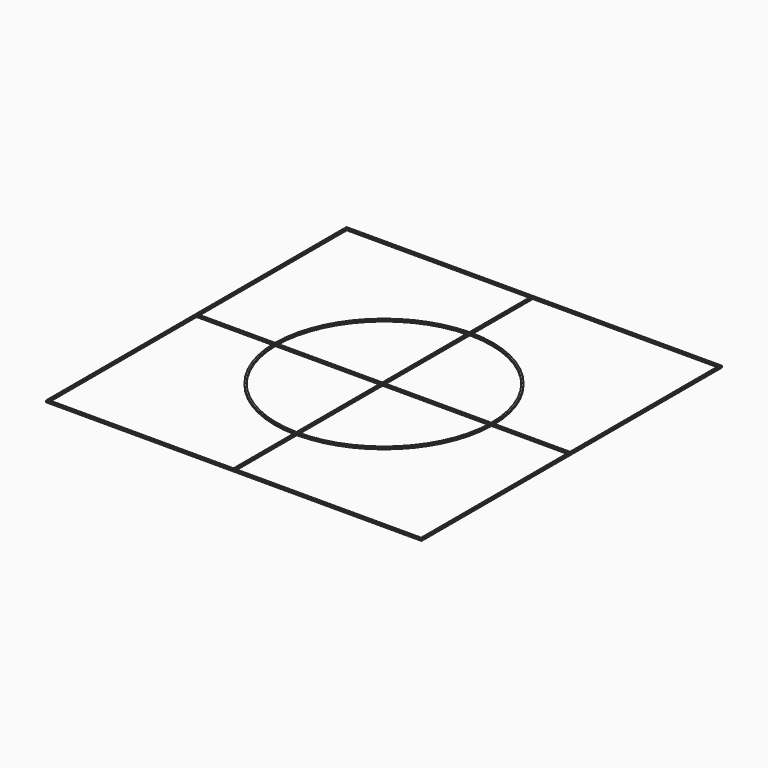
from build123d import *

# Parameters (mm, degrees)
F0_W     = 175
F0_H     = 175
F1_DEPTH = 0.8


with BuildPart() as f1:
    # F0 (on Top) → F1 (new body)
    with BuildSketch(Plane.XY):
        Rectangle(F0_W, F0_H)
        with BuildLine():
            Line((0, 86.7), (86.7, 86.7))
            Line((86.7, 86.7), (86.7, 0))
            Line((86.7, 0), (50.8, 0))
            ThreePointArc((50.8, 0), (50.7984250748, -0.4000124014), (50.7937003968, -0.8))
            Line((50.7937003968, -0.8), (86.7, -0.8))
            Line((86.7, -0.8), (86.7, -86.7))
            Line((86.7, -86.7), (0, -86.7))
            Line((0, -86.7), (0, -50.8))
            ThreePointArc((0, -50.8), (-0.4000124014, -50.7984250748), (-0.8, -50.7937003968))
            Line((-0.8, -50.7937003968), (-0.8, -86.7))
            Line((-0.8, -86.7), (-86.7, -86.7))
            Line((-86.7, -86.7), (-86.7, -0.8))
            Line((-86.7, -0.8), (-86.7, 0))
            Line((-86.7, 0), (-86.7, 86.7))
            Line((-86.7, 86.7), (-0.8, 86.7))
            Line((-0.8, 86.7), (-0.8, 50.7937003968))
            ThreePointArc((-0.8, 50.7937003968), (-0.4000124014, 50.7984250748), (0, 50.8))
            Line((0, 50.8), (0, 86.7))
        make_face(mode=Mode.SUBTRACT)
        with BuildLine():
            Line((-0.8, 49.9935995903), (-0.8, 50.7937003968))
            ThreePointArc((-0.8, 50.7937003968), (-36.2027623255, 35.6370593624), (-50.8, 0))
            Line((-50.8, 0), (-50, 0))
            ThreePointArc((-50, 0), (-35.6370593624, 35.0713558335), (-0.8, 49.9935995903))
        make_face()
        with BuildLine():
            Line((-50, 0), (-50.8, 0))
            ThreePointArc((-50.8, 0), (-50.7984250748, -0.4000124014), (-50.7937003968, -0.8))
            Line((-50.7937003968, -0.8), (-49.9935995903, -0.8))
            ThreePointArc((-49.9935995903, -0.8), (-49.998399872, -0.4000128014), (-50, 0))
        make_face()
        with BuildLine():
            Line((-49.9935995903, -0.8), (-50.7937003968, -0.8))
            ThreePointArc((-50.7937003968, -0.8), (-35.9210244843, -35.9210244843), (-0.8, -50.7937003968))
            Line((-0.8, -50.7937003968), (-0.8, -49.9935995903))
            ThreePointArc((-0.8, -49.9935995903), (-35.3553390593, -35.3553390593), (-49.9935995903, -0.8))
        make_face()
        with BuildLine():
            Line((0, 0), (0, 50))
            ThreePointArc((0, 50), (-0.4000128014, 49.998399872), (-0.8, 49.9935995903))
            Line((-0.8, 49.9935995903), (-0.8, 0))
            Line((-0.8, 0), (0, -0.8))
            Line((0, -0.8), (49.9935995903, -0.8))
            ThreePointArc((49.9935995903, -0.8), (49.998399872, -0.4000128014), (50, 0))
            Line((50, 0), (0, 0))
        make_face()
        with BuildLine():
            ThreePointArc((-50.7937003968, -0.8), (-50.7984250748, -0.4000124014), (-50.8, 0))
            Line((-50.8, 0), (-86.7, 0))
            Line((-86.7, 0), (-86.7, -0.8))
            Line((-86.7, -0.8), (-50.7937003968, -0.8))
        make_face()
        with BuildLine():
            ThreePointArc((50.8, 0), (35.9210244843, 35.9210244843), (0, 50.8))
            Line((0, 50.8), (0, 50))
            ThreePointArc((0, 50), (35.3553390593, 35.3553390593), (50, 0))
            Line((50, 0), (50.8, 0))
        make_face()
        with BuildLine():
            ThreePointArc((50.7937003968, -0.8), (50.7984250748, -0.4000124014), (50.8, 0))
            Line((50.8, 0), (50, 0))
            ThreePointArc((50, 0), (49.998399872, -0.4000128014), (49.9935995903, -0.8))
            Line((49.9935995903, -0.8), (50.7937003968, -0.8))
        make_face()
        with BuildLine():
            ThreePointArc((0, -50.8), (35.6370593624, -36.2027623255), (50.7937003968, -0.8))
            Line((50.7937003968, -0.8), (49.9935995903, -0.8))
            ThreePointArc((49.9935995903, -0.8), (35.0713558335, -35.6370593624), (0, -50))
            Line((0, -50), (0, -50.8))
        make_face()
        with BuildLine():
            ThreePointArc((-0.8, -50.7937003968), (-0.4000124014, -50.7984250748), (0, -50.8))
            Line((0, -50.8), (0, -50))
            ThreePointArc((0, -50), (-0.4000128014, -49.998399872), (-0.8, -49.9935995903))
            Line((-0.8, -49.9935995903), (-0.8, -50.7937003968))
        make_face()
        with BuildLine():
            Line((0, 50), (0, 50.8))
            ThreePointArc((0, 50.8), (-0.4000124014, 50.7984250748), (-0.8, 50.7937003968))
            Line((-0.8, 50.7937003968), (-0.8, 49.9935995903))
            ThreePointArc((-0.8, 49.9935995903), (-0.4000128014, 49.998399872), (0, 50))
        make_face()
        with BuildLine():
            Line((0, -0.8), (-0.8, 0))
            Line((-0.8, 0), (-50, 0))
            ThreePointArc((-50, 0), (-49.998399872, -0.4000128014), (-49.9935995903, -0.8))
            Line((-49.9935995903, -0.8), (-0.8, -0.8))
            Line((-0.8, -0.8), (-0.8, -49.9935995903))
            ThreePointArc((-0.8, -49.9935995903), (-0.4000128014, -49.998399872), (0, -50))
            Line((0, -50), (0, -0.8))
        make_face()
    extrude(amount=F1_DEPTH)


solid = f1.part
